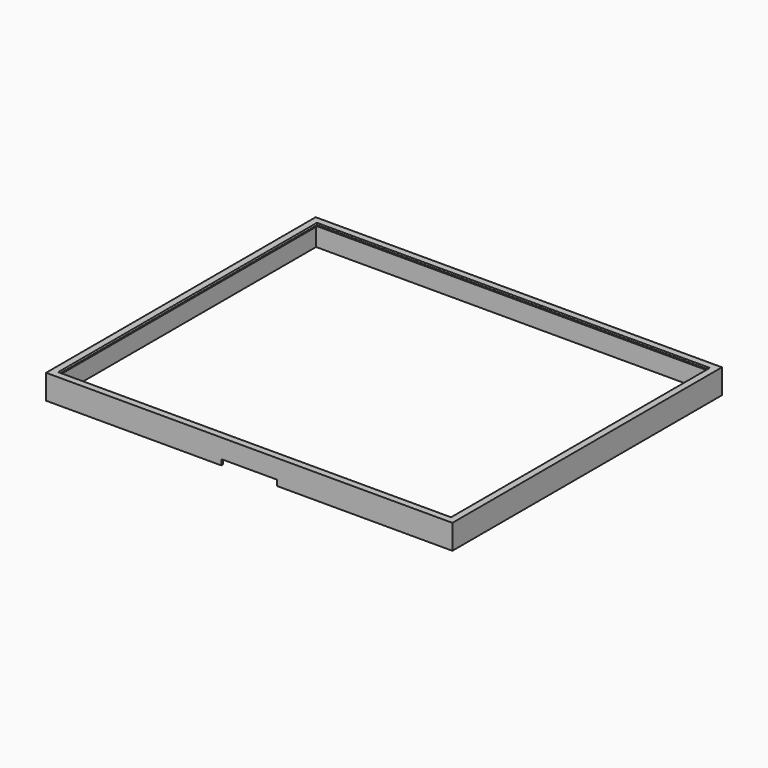
from build123d import *

# Parameters (mm, degrees)
F0_W     = 363
F0_H     = 301
F0_W_2   = 359
F0_H_2   = 297
F0_W_3   = 349
F0_H_3   = 287
F1_DEPTH = 22
F2_DEPTH = 25
F3_DEPTH = 20
F4_SIZE  = 1
F5_W     = 50
F5_H     = 5
F6_DEPTH = 25


with BuildPart() as f1:
    # F0 (on Top) → F1 (new body)
    with BuildSketch(Plane.XY):
        Rectangle(F0_W, F0_H)
        Rectangle(F0_W_2, F0_H_2, mode=Mode.SUBTRACT)
        Rectangle(F0_W_3, F0_H_3)
        Rectangle(F0_W_2, F0_H_2)
        Rectangle(F0_W_3, F0_H_3, mode=Mode.SUBTRACT)
    extrude(amount=F1_DEPTH)

    # F0 (on Top) → F2 (cut)
    with BuildSketch(Plane.XY):
        Rectangle(F0_W_3, F0_H_3)
    extrude(amount=F2_DEPTH, mode=Mode.SUBTRACT)

    # F0 (on Top) → F3 (cut)
    with BuildSketch(Plane.XY):
        Rectangle(F0_W_2, F0_H_2)
        Rectangle(F0_W_3, F0_H_3, mode=Mode.SUBTRACT)
    extrude(amount=F3_DEPTH, mode=Mode.SUBTRACT)

    # F4
    f4_edges = [f1.edges().sort_by_distance(p)[0] for p in [
        (0, -143.5, 22),
        (-174.5, 0, 22),
        (0, 143.5, 22),
        (174.5, 0, 22),
    ]]
    chamfer(f4_edges, length=F4_SIZE)

    # F5 (on face) → F6 (cut)
    with BuildSketch(Plane.XZ.offset(150.5)):
        with Locations((0, 2.5)):
            Rectangle(F5_W, F5_H)
    extrude(amount=-F6_DEPTH, mode=Mode.SUBTRACT)


solid = f1.part
